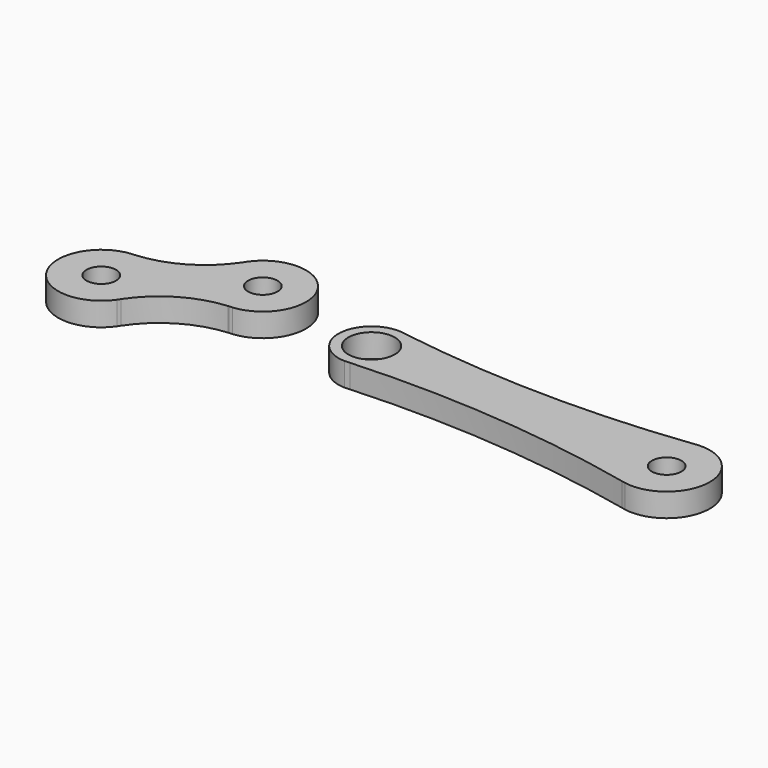
from build123d import *

# Parameters (mm, degrees)
F0_R     = 6.29765
F1_DEPTH = 10
F2_R     = 6.29765
F2_R_2   = 9.89125
F3_DEPTH = 10


with BuildPart() as f1:
    # F0 (on Top) → F1 (new body)
    with BuildSketch(Plane.XY):
        with BuildLine():
            ThreePointArc((-0.036217, -18.425686), (0.144986, -18.405869), (0.327057, -18.397093))
            ThreePointArc((0.327057, -18.397093), (1.042584, -18.3502), (1.758818, -18.315746))
            ThreePointArc((1.758818, -18.315746), (15.877912, 9.297952), (-15.112901, 10.495723))
            ThreePointArc((-15.112901, 10.495723), (-15.4934, 9.887942), (-15.884401, 9.286863))
            ThreePointArc((-15.884401, 9.286863), (-15.981141, 9.132369), (-16.087085, 8.984035))
            ThreePointArc((-16.087085, 8.984035), (-29.584203, -3.61373), (-47.22385, -9.065217))
            ThreePointArc((-47.22385, -9.065217), (-47.939377, -9.112111), (-48.655611, -9.146564))
            ThreePointArc((-48.655611, -9.146564), (-62.774705, -36.760263), (-31.783892, -37.958034))
            ThreePointArc((-31.783892, -37.958034), (-31.403394, -37.350252), (-31.012393, -36.749173))
            ThreePointArc((-31.012393, -36.749173), (-17.62704, -24.03272), (-0.036217, -18.425686))
        make_face()
        with Locations((-46.896793, -27.46231)):
            Circle(F0_R, mode=Mode.SUBTRACT)
        Circle(F0_R, mode=Mode.SUBTRACT)
    extrude(amount=F1_DEPTH)


with BuildPart() as f3:
    # F2 (on Top) → F3 (new body)
    with BuildSketch(Plane.XY):
        with BuildLine():
            ThreePointArc((183.081922, 0.796685), (120.74341, -2.542601), (58.534153, 2.677492))
            ThreePointArc((58.534153, 2.677492), (57.379007, 2.85635), (56.224324, 3.038172))
            ThreePointArc((56.224324, 3.038172), (41.102929, -10.366672), (54.864632, -25.164035))
            ThreePointArc((54.864632, -25.164035), (56.031451, -25.094137), (57.198446, -25.027236))
            ThreePointArc((57.198446, -25.027236), (119.62135, -25.815939), (181.34949, -35.136758))
            ThreePointArc((181.34949, -35.136758), (182.071102, -35.297589), (182.792452, -35.459592))
            ThreePointArc((182.792452, -35.459592), (204.463698, -18.242662), (184.549249, 0.979208))
            ThreePointArc((184.549249, 0.979208), (183.815659, 0.887351), (183.081922, 0.796685))
        make_face()
        with Locations((186.085045, -17.356586)):
            Circle(F2_R, mode=Mode.SUBTRACT)
        with Locations((55.208045, -11.046711)):
            Circle(F2_R_2, mode=Mode.SUBTRACT)
    extrude(amount=F3_DEPTH)


solid = Compound([f1.part, f3.part])
